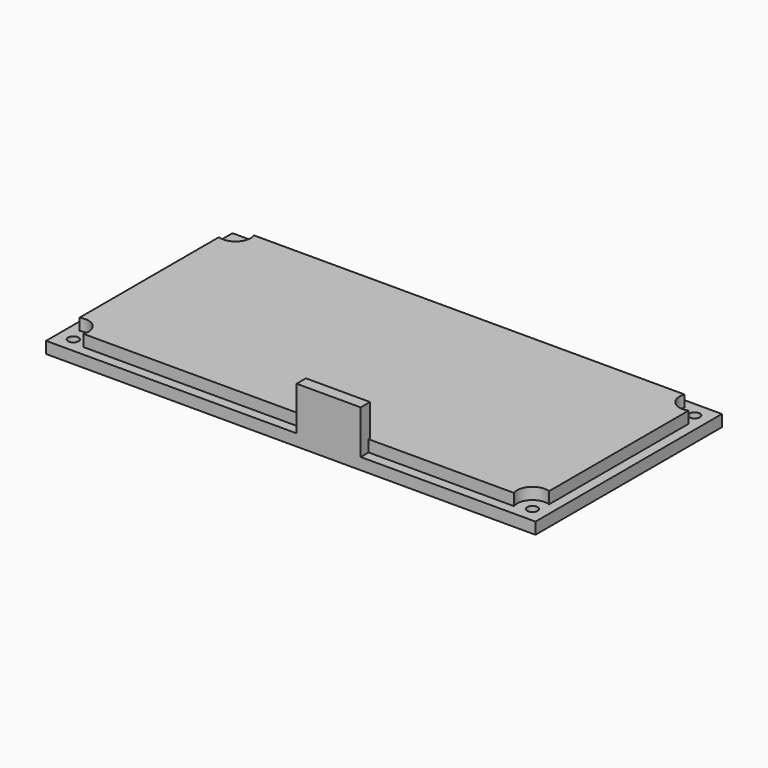
from build123d import *

# Parameters (mm, degrees)
F0_W     = 84
F0_H     = 40
F1_DEPTH = 2
F3_DEPTH = 2
F4_R     = 0.9
F6_DEPTH = 2.001
F7_SIZE  = 1
F5_W     = 11
F5_H     = 7.5
F8_DEPTH = 2


with BuildPart() as f1:
    # F0 (on Top) → F1 (new body)
    with BuildSketch(Plane.XY):
        Rectangle(F0_W, F0_H)
    extrude(amount=F1_DEPTH)

    # F2 (on face) → F3 (join)
    with BuildSketch(Plane.XY.offset(2)):
        with BuildLine():
            Line((-36.9607378165, -18.3), (36.9607378165, -18.3))
            ThreePointArc((36.9607378165, -18.3), (37.5615223689, -15.5615223689), (40.3, -14.9607378165))
            Line((40.3, -14.9607378165), (40.3, 14.9607378165))
            ThreePointArc((40.3, 14.9607378165), (37.5615223689, 15.5615223689), (36.9607378165, 18.3))
            Line((36.9607378165, 18.3), (-36.9607378165, 18.3))
            ThreePointArc((-36.9607378165, 18.3), (-36.840499885, 17.8571205108), (-36.8, 17.4))
            ThreePointArc((-36.8, 17.4), (-37.9133931253, 15.2669270992), (-40.3, 14.9607378165))
            Line((-40.3, 14.9607378165), (-40.3, -14.9607378165))
            ThreePointArc((-40.3, -14.9607378165), (-37.9133931253, -15.2669270992), (-36.8, -17.4))
            ThreePointArc((-36.8, -17.4), (-36.840499885, -17.8571205108), (-36.9607378165, -18.3))
        make_face()
    extrude(amount=F3_DEPTH)

    # F4 (on face) → F6 (cut, through all)
    with BuildSketch(Plane.XY.offset(2)):
        with Locations((-39.4, 17.4)):
            Circle(F4_R)
        with Locations((-39.4, -17.4)):
            Circle(F4_R)
        with Locations((39.4, -17.4)):
            Circle(F4_R)
        with Locations((39.4, 17.4)):
            Circle(F4_R)
    extrude(amount=-F6_DEPTH, mode=Mode.SUBTRACT)

    # F7
    f7_edges = [f1.edges().sort_by_distance(p)[0] for p in [
        (-40.3, 17.4, 0),
        (-40.3, -17.4, 0),
        (38.5, -17.4, 0),
        (38.5, 17.4, 0),
    ]]
    chamfer(f7_edges, length=F7_SIZE)

    # F5 (on face) → F8 (join)
    with BuildSketch(Plane.XZ.offset(20)):
        with Locations((6.5, 5.75)):
            Rectangle(F5_W, F5_H)
    extrude(amount=-F8_DEPTH)


solid = f1.part
